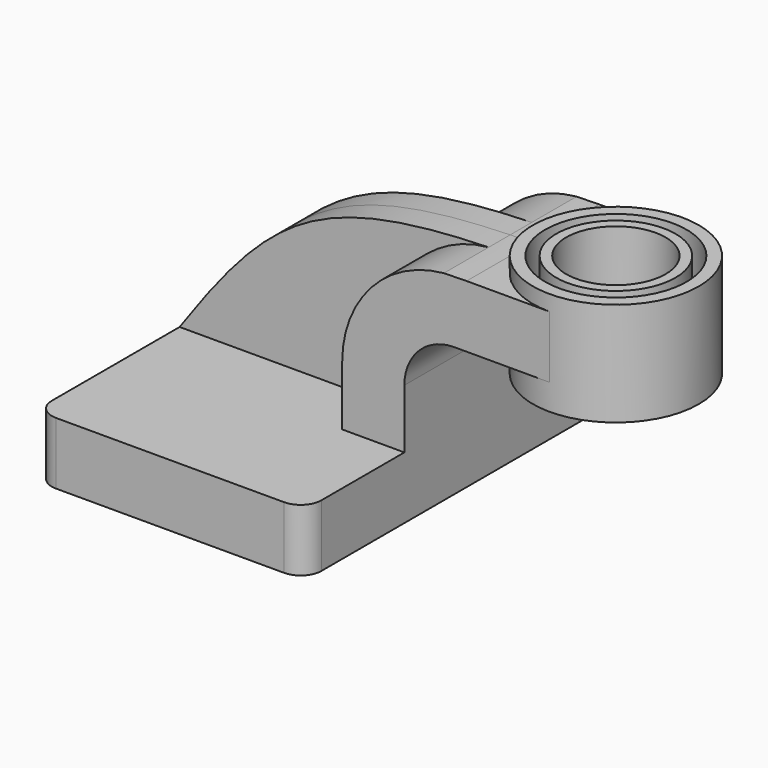
from build123d import *

# Parameters (mm, degrees)
F1_DEPTH = 63.5
F0_W     = 25.4
F0_H     = 19.05
F2_DEPTH = 25.4
F3_DEPTH = 8.255
F5_R     = 6.35
F6_W     = 15.24
F6_H     = 46.9691504169
F9_DEPTH = 50.8


with BuildPart() as f1:
    # F0 (on Front) → F1 (new body, symmetric)
    with BuildSketch(Plane.XZ):
        Polygon((-41.275, -9.525), (41.275, -9.525), (41.275, 9.525), (22.225, 9.525), (-41.275, 9.525), align=None)
    extrude(amount=F1_DEPTH, both=True)

    # F0 (on Front) → F2 (join, symmetric)
    with BuildSketch(Plane.XZ):
        with BuildLine():
            Line((22.225, 9.525), (41.275, 9.525))
            Line((41.275, 9.525), (41.275, 27.6363673073))
            ThreePointArc((41.275, 27.6363673073), (45.7383507583, 38.4118492417), (56.5138326927, 42.8752))
            Line((56.5138326927, 42.8752), (60.325, 42.8752))
            Line((60.325, 42.8752), (60.325, 61.9252))
            add(Edge.make_bspline(
                [(53.3644706979, 61.7802623173), (55.6138591424, 61.8461715682), (57.932693412, 61.8939891327), (60.325, 61.9252)],
                knots=[109.5896319185, 109.5896319185, 109.5896319185, 109.5896319185, 114.3168446032, 114.3168446032, 114.3168446032, 114.3168446032], degree=3))
            ThreePointArc((53.3644706979, 61.7802623173), (31.1789556064, 50.7419521398), (22.225, 27.6363673073))
            Line((22.225, 27.6363673073), (22.225, 9.525))
        make_face()
        with Locations((73.025, 52.4002)):
            Rectangle(F0_W, F0_H)
    extrude(amount=F2_DEPTH, both=True)

    # F0 (on Front) → F3 (join, symmetric)
    with BuildSketch(Plane.XZ):
        with BuildLine():
            add(Edge.make_bspline(
                [(-41.275, 9.525), (-13.606549455, 49.0011852819), (1.217535892, 60.2523068328), (53.3644706979, 61.7802623173)],
                knots=[0, 0, 0, 0, 109.5896319185, 109.5896319185, 109.5896319185, 109.5896319185], degree=3))
            Line((-41.275, 9.525), (22.225, 9.525))
            Line((22.225, 9.525), (22.225, 27.6363673073))
            ThreePointArc((22.225, 27.6363673073), (31.1789556064, 50.7419521398), (53.3644706979, 61.7802623173))
        make_face()
    extrude(amount=F3_DEPTH, both=True)

    # F0 (on Front) → F4 (revolve)
    with BuildSketch(Plane.XZ):
        Polygon((85.725, 66.675), (85.725, 61.9252), (85.725, 42.8752), (85.725, 34.925), (111.125, 34.925), (111.125, 66.675), align=None)
    revolve(axis=Axis((85.725, 0, 50.8), (0, 0, -1)))

    # F5
    f5_edges = [f1.edges().sort_by_distance(p)[0] for p in [
        (-41.275, -63.5, 0),
        (41.275, -63.5, 0),
        (41.275, 63.5, 0),
        (-41.275, 63.5, 0),
    ]]
    fillet(f5_edges, radius=F5_R)

    # F6 (on Front) → F7 (revolve, cut)
    with BuildSketch(Plane.XZ):
        with Locations((93.345, 58.4095752084)):
            Rectangle(F6_W, F6_H)
    revolve(axis=Axis((85.725, 0, 58.4095752084), (0, 0, -1)), mode=Mode.SUBTRACT)

    # F8 (on face) → F9 (cut)
    with BuildSketch(Plane.XY.offset(66.675)):
        with BuildLine():
            ThreePointArc((67.4806815774, 0), (85.725, 18.2443184226), (103.9693184226, 0))
            Line((103.9693184226, 0), (107.3818019288, 0))
            ThreePointArc((107.3818019288, 0), (85.725, 21.6568019288), (64.0681980712, 0))
            Line((64.0681980712, 0), (67.4806815774, 0))
        make_face()
        with BuildLine():
            Line((107.3818019288, 0), (103.9693184226, 0))
            ThreePointArc((103.9693184226, 0), (85.725, -18.2443184226), (67.4806815774, 0))
            Line((67.4806815774, 0), (64.0681980712, 0))
            ThreePointArc((64.0681980712, 0), (85.725, -21.6568019288), (107.3818019288, 0))
        make_face()
    extrude(amount=-F9_DEPTH, mode=Mode.SUBTRACT)


solid = f1.part
